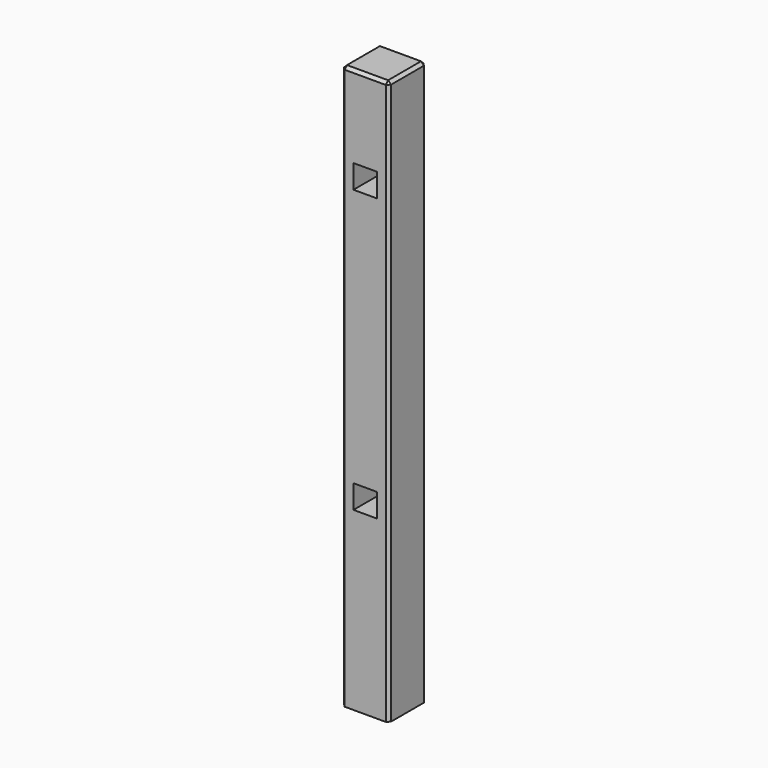
from build123d import *

# Parameters (mm, degrees)
F0_W     = 50.8
F0_H     = 50.8
F1_DEPTH = 101.6
F2_SIZE  = 6.35


with BuildPart() as f1:
    # F0 (on Front) → F1 (new body)
    with BuildSketch(Plane.XZ):
        Polygon((50.8, -203.2), (50.8, 609.6), (-50.8, 609.6), (-50.8, 406.4), (-50.8, -203.2), (-50.8, -609.6), (50.8, -609.6), align=None)
        with Locations((0, -203.2)):
            Rectangle(F0_W, F0_H, mode=Mode.SUBTRACT)
        with Locations((0, 406.4)):
            Rectangle(F0_W, F0_H, mode=Mode.SUBTRACT)
    extrude(amount=F1_DEPTH)

    # F2
    f2_edges = [f1.edges().sort_by_distance(p)[0] for p in [
        (-50.8, -101.6, 0),
        (50.8, -101.6, 0),
        (50.8, 0, 0),
        (-50.8, 0, 0),
        (0, 0, 609.6),
        (50.8, -50.8, 609.6),
        (0, -101.6, 609.6),
        (-50.8, -50.8, 609.6),
    ]]
    chamfer(f2_edges, length=F2_SIZE)


solid = f1.part
